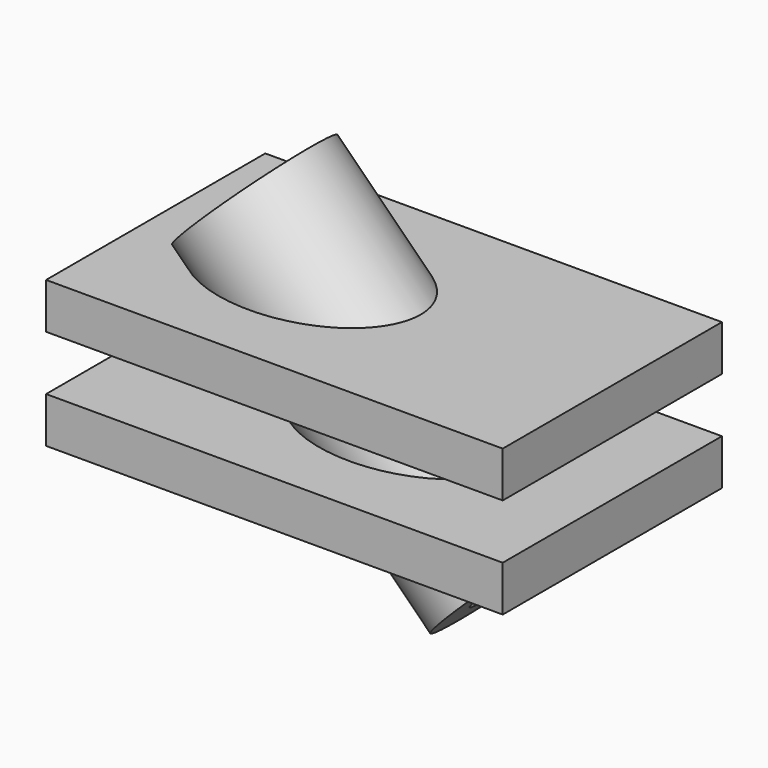
from build123d import *

# Parameters (mm, degrees)
SKETCH001_W = 4.25
SKETCH001_H = 20
SKETCH002_W = 25
SKETCH002_H = 2.5
PAD_DEPTH   = 7.5


with BuildPart() as part:
    # Sketch001 → Revolution (revolve)
    with BuildSketch(Plane(origin=(0, 0, 0), x_dir=(0.707107, 0, 0.707107), z_dir=(0, -1, 0))):
        with Locations((2.125, 0)):
            Rectangle(SKETCH001_W, SKETCH001_H)
    revolve(axis=Axis((0, 0, 0), (-0.707107, 0, 0.707107)))

    # Sketch002 → Pad (new body, symmetric)
    with BuildSketch(Plane.XZ):
        with Locations((0, 2.75)):
            Rectangle(SKETCH002_W, SKETCH002_H)
    pad = extrude(amount=PAD_DEPTH, both=True)

    # Mirrored: Pad across Sketch002 H_Axis
    add(pad.mirror(Plane(origin=(0, 0, 0), x_dir=(0, -1, 0), z_dir=(0, 0, 1))))

    # Sketch → Groove (revolve, cut)
    with BuildSketch(Plane(origin=(0, 0, 0), x_dir=(0.707107, 0, 0.707107), z_dir=(0, -1, 0))):
        Polygon((0, -10), (2.25, -10), (2.25, 0), (1.125, 0), (1.125, 10), (0, 10), align=None)
    revolve(axis=Axis((0, 0, 0), (-0.707107, 0, 0.707107)), mode=Mode.SUBTRACT)


solid = part.part
